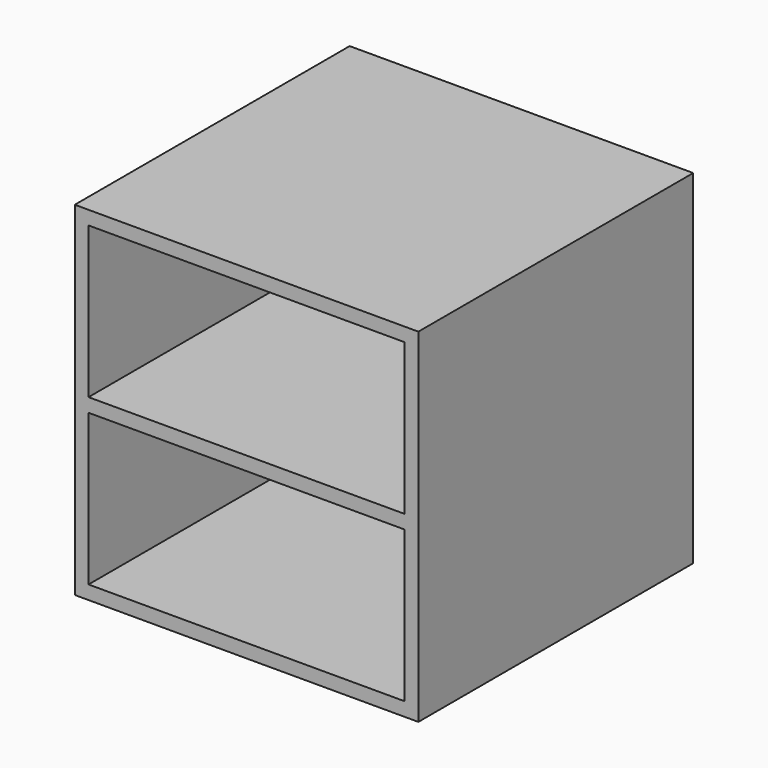
from build123d import *

# Parameters (mm, degrees)
F0_W     = 300
F0_H     = 300
F1_DEPTH = 150
F2_T     = -12
F3_W     = 276
F3_H     = 12
F4_DEPTH = 288


with BuildPart() as f1:
    # F0 (on Front) → F1 (new body, symmetric)
    with BuildSketch(Plane.XZ):
        Rectangle(F0_W, F0_H)
    extrude(amount=F1_DEPTH, both=True)

    # F2
    f2_openings = [f1.faces().sort_by_distance(p)[0] for p in [
        (0, -150, 0),
    ]]
    offset(amount=F2_T, openings=f2_openings)

    # F3 (on face) → F4 (join)
    with BuildSketch(Plane.XZ.offset(150)):
        Rectangle(F3_W, F3_H)
    extrude(amount=-F4_DEPTH)


solid = f1.part
